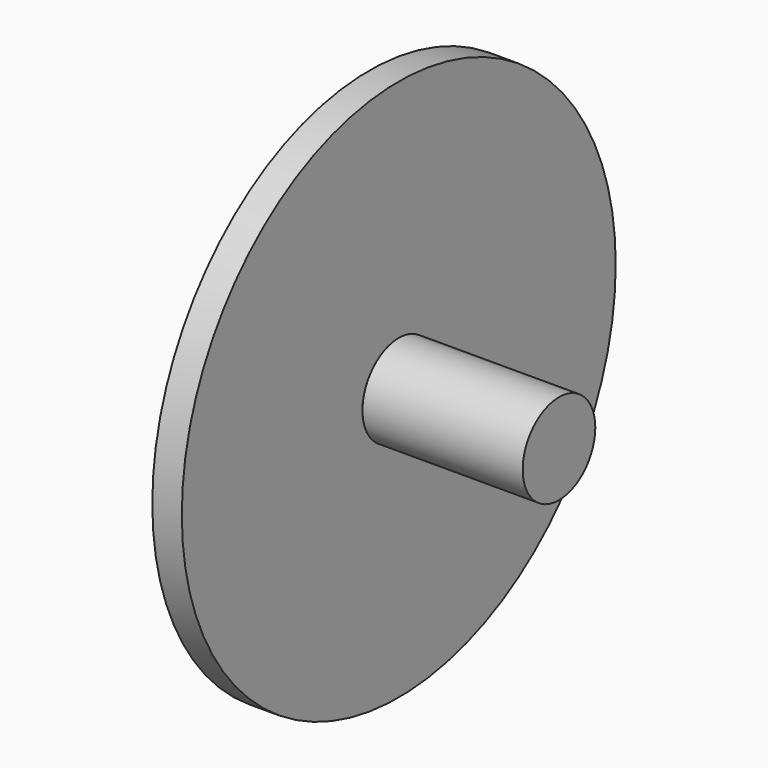
from build123d import *

# Parameters (mm, degrees)
F0_R     = 1.07635
F1_DEPTH = 3.8
F2_R     = 6.431209
F2_R_2   = 1.07635
F3_DEPTH = 0.7


with BuildPart() as f1:
    # F0 (on Right) → F1 (new body)
    with BuildSketch(Plane.YZ):
        Circle(F0_R)
    extrude(amount=F1_DEPTH)


with BuildPart() as f3:
    # F2 (on face) → F3 (new body)
    with BuildSketch(Plane(origin=(0, 0, 0), x_dir=(0, -1, 0), z_dir=(-1, 0, 0))):
        Circle(F2_R)
        Circle(F2_R_2, mode=Mode.SUBTRACT)
    extrude(amount=F3_DEPTH)


solid = Compound([f1.part, f3.part])
